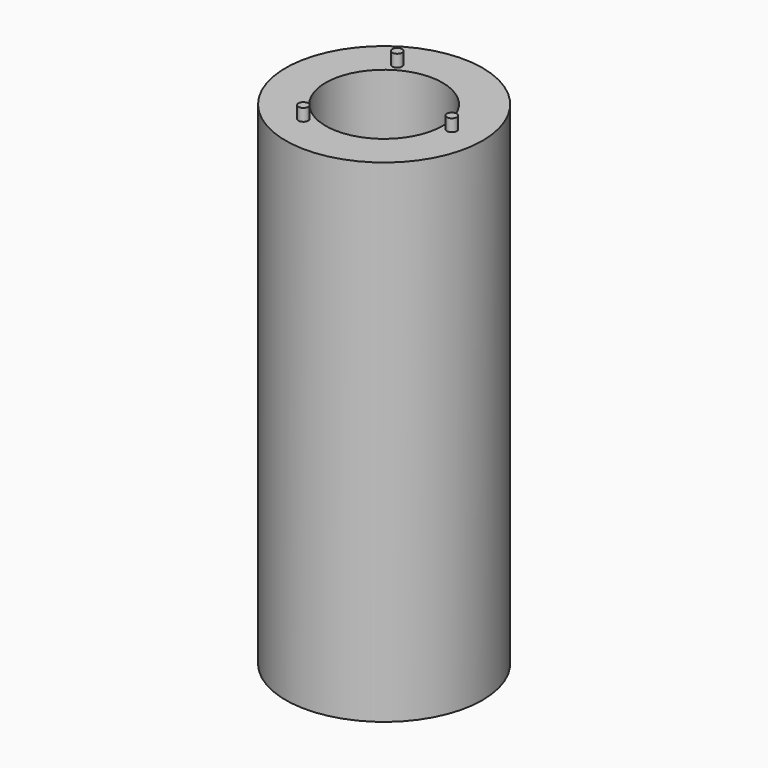
from build123d import *

# Parameters (mm, degrees)
F0_R     = 80
F0_R_2   = 4
F0_R_3   = 47.5
F1_DEPTH = 400
F2_DEPTH = 9.9
F3_DEPTH = 350


with BuildPart() as f1:
    # F0 (on Top) → F1 (new body)
    with BuildSketch(Plane.XY):
        Circle(F0_R)
        with Locations((-27.5, -47.631397)):
            Circle(F0_R_2, mode=Mode.SUBTRACT)
        with Locations((-27.5, 47.631397)):
            Circle(F0_R_2, mode=Mode.SUBTRACT)
        Circle(F0_R_3, mode=Mode.SUBTRACT)
        with Locations((55, 0)):
            Circle(F0_R_2, mode=Mode.SUBTRACT)
        Circle(F0_R_3)
        with Locations((-27.5, 47.631397)):
            Circle(F0_R_2)
        with Locations((55, 0)):
            Circle(F0_R_2)
        with Locations((-27.5, -47.631397)):
            Circle(F0_R_2)
    extrude(amount=-F1_DEPTH)

    # F0 (on Top) → F2 (join)
    with BuildSketch(Plane.XY):
        with Locations((-27.5, -47.631397)):
            Circle(F0_R_2)
        with Locations((55, 0)):
            Circle(F0_R_2)
        with Locations((-27.5, 47.631397)):
            Circle(F0_R_2)
    extrude(amount=F2_DEPTH)

    # F0 (on Top) → F3 (cut)
    with BuildSketch(Plane.XY):
        Circle(F0_R_3)
    extrude(amount=-F3_DEPTH, mode=Mode.SUBTRACT)


solid = f1.part
